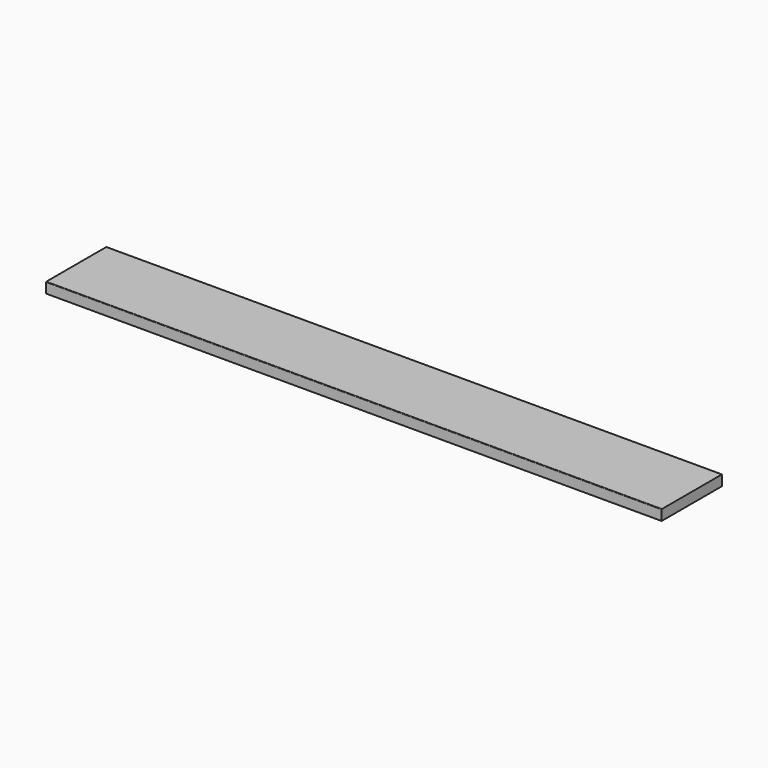
from build123d import *

# Parameters (mm, degrees)
BOX_W     = 1120
BOX_H     = 137
BOX_DEPTH = 19
FILLET_R  = 1


with BuildPart() as part:
    # Box → Box (new body)
    with BuildSketch(Plane.XY):
        with Locations((560, 68.5)):
            Rectangle(BOX_W, BOX_H)
    extrude(amount=BOX_DEPTH)

    # Fillet
    fillet_edges = [part.edges().sort_by_distance(p)[0] for p in [
        (560, 0, 19),
    ]]
    fillet(fillet_edges, radius=FILLET_R)


solid = part.part
